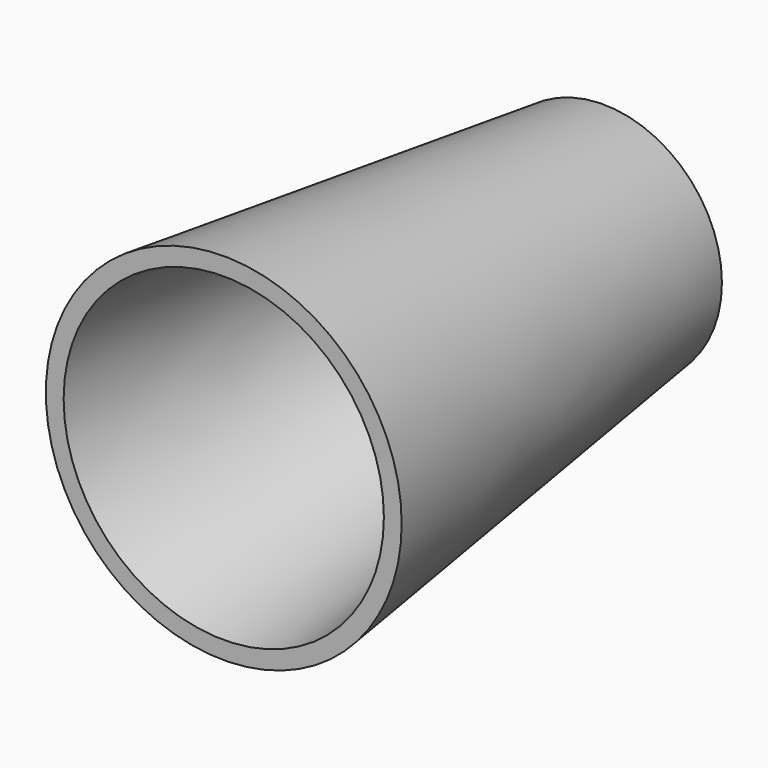
from build123d import *

# Parameters (mm, degrees)
F0_R     = 25.4
F2_R     = 38.1
F5_R     = 21.59
F4_R     = 34.29
F7_R     = 24.9738959908
F8_DEPTH = 2.54


with BuildPart() as f3:
    # F0 (on Front) → F3 section 0
    with BuildSketch(Plane.XZ):
        Circle(F0_R)
    # F2 (on offset) → F3 section 1
    with BuildSketch(Plane.XZ.offset(101.6)):
        Circle(F2_R)
    loft()

    # F5 (on face) → F6 section 0
    with BuildSketch(Plane(origin=(0, 0, 0), x_dir=(-1, 0, 0), z_dir=(0, 1, 0))):
        Circle(F5_R)
    # F4 (on face) → F6 section 1
    with BuildSketch(Plane.XZ.offset(101.6)):
        Circle(F4_R)
    loft(mode=Mode.SUBTRACT)

    # F7 (on Front) → F8 (join)
    with BuildSketch(Plane.XZ):
        Circle(F7_R)
    extrude(amount=F8_DEPTH)


solid = f3.part
